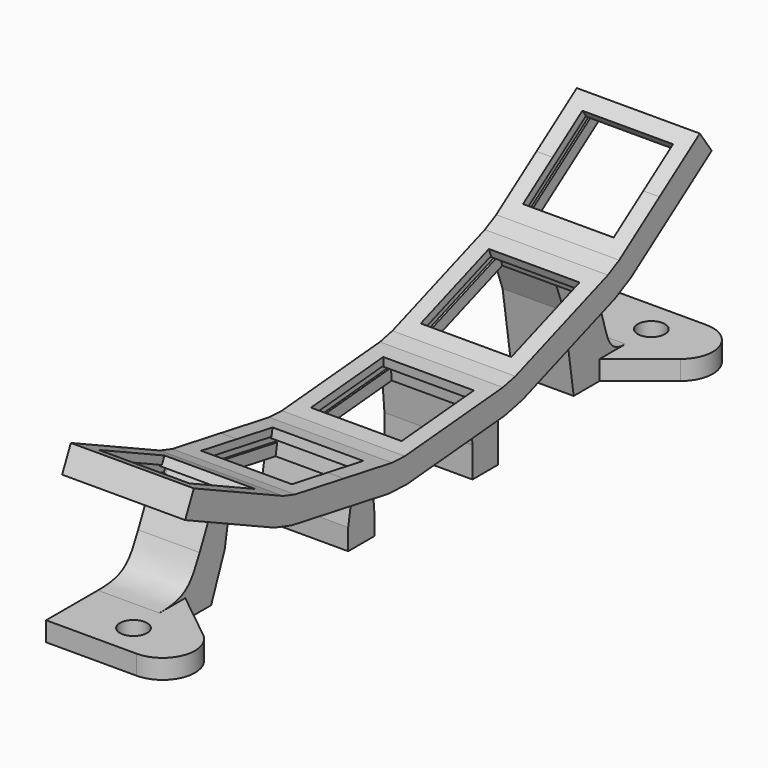
from build123d import *

# Parameters (mm, degrees)
PAD012_DEPTH      = 9.5
POCKET006_DEPTH   = 7
POCKET007_DEPTH   = 7.3
PAD013_DEPTH      = 4.1
PAD013_DEPTH_BACK = 9.5
PAD014_DEPTH      = 9.5
SKETCH025_R       = 2.1
PAD015_DEPTH      = 3


with BuildPart() as part:
    # Sketch020 → Pad012 (new body, symmetric)
    with BuildSketch(Plane.YZ):
        Polygon((-50.2140974459, 25.1635701277), (-41.604173469, 21.1486966411), (-32.9942494922, 17.1338231546), (-30.6406576873, 16.391738509), (-21.2849840337, 14.7420808212), (-11.9293103801, 13.0924231333), (-9.4638496319, 12.9847787924), (0, 13.8127583485), (9.4638496319, 14.6407379046), (11.8731622478, 15.1748696522), (20.8002421453, 18.4240610138), (29.7273220428, 21.6732523754), (31.9162958532, 22.8127600156), (39.698240274, 28.2617361609), (47.4801846947, 33.7107123063), (49.7744904401, 30.4341041291), (34.2106015986, 19.5361518385), (31.0954026161, 17.9144818922), (13.2412428211, 11.416099169), (9.8124726029, 10.6559591122), (-9.1152266609, 9), (-12.6239030908, 9.1531921213), (-31.335250398, 12.452507497), (-34.6847225392, 13.5085920065), (-51.9045704929, 21.5383389795), align=None)
    extrude(amount=PAD012_DEPTH, both=True)

    # Sketch021 → Pocket006 (cut, symmetric)
    with BuildSketch(Plane.YZ):
        Polygon((-47.9483279783, 24.1070244733), (-41.604173469, 21.1486966411), (-35.2600189598, 18.190368809), (-35.8516845262, 16.9215379071), (-34.6734844031, 16.3721341668), (-35.7722918836, 14.0157339205), (-43.294646516, 17.523465493), (-50.8170011484, 21.0311970654), (-49.7181936679, 23.3875973117), (-48.5399935447, 22.8381935715), align=None)
        Polygon((-30.1534810944, 12.2441296838), (-29.7019958324, 14.8046298416), (-28.4217457535, 14.5788872106), (-28.1786383048, 15.9576180648), (-21.2849840337, 14.7420808212), (-14.3913297626, 13.5265435775), (-14.6344372114, 12.1478127233), (-13.3541871324, 11.9220700923), (-13.8056723944, 9.3615699345), (-21.9795767444, 10.8028498091), align=None)
        Polygon((-8.1463979543, 11.6946931063), (-6.8513448468, 11.8079955719), (-6.9733628866, 13.2026681492), (0, 13.8127583485), (6.9733628866, 14.4228485477), (7.0953809265, 13.0281759704), (8.390434034, 13.1414784359), (8.6170389652, 10.5513722209), (0.348622971, 9.8279795561), (-7.9197930232, 9.1045868913), align=None)
        Polygon((14.2223937998, 16.0299200105), (20.8002421453, 18.4240610138), (27.3780904908, 20.818202017), (27.8569186914, 19.5026323479), (29.0785190985, 19.9472585343), (29.9677714711, 17.5040577202), (22.1683227186, 14.6652905306), (14.3688739661, 11.826523341), (13.4796215934, 14.2697241551), (14.7012220004, 14.7143503414), align=None)
        Polygon((33.7022853173, 22.3542388772), (34.7671829748, 23.0998882445), (33.964175964, 24.2467011065), (39.698240274, 28.2617361609), (45.432304584, 32.2767712154), (46.2353115949, 31.1299583534), (47.3002092525, 31.8756077207), (48.791507987, 29.7458124055), (41.9925460194, 24.9851279838), (35.1935840518, 20.2244435621), align=None)
    extrude(amount=POCKET006_DEPTH, both=True, mode=Mode.SUBTRACT)

    # Sketch022 → Pocket007 (cut, symmetric)
    with BuildSketch(Plane.YZ):
        Polygon((-48.4554698924, 23.0194551289), (-35.7671608739, 17.1027994645), (-35.8516845262, 16.9215379071), (-34.6734844031, 16.3721341668), (-35.0115790125, 15.6470879372), (-50.0562882773, 22.6625510822), (-49.7181936678, 23.3875973117), (-48.5399935447, 22.8381935715), align=None)
        Polygon((-28.387016118, 14.7758487612), (-14.5997075758, 12.3447742739), (-14.6344372114, 12.1478127233), (-13.3541871325, 11.9220700923), (-13.4931056746, 11.1342238899), (-29.8409143746, 14.0167836392), (-29.7019958324, 14.8046298416), (-28.4217457535, 14.5788872107), align=None)
        Polygon((-6.8687759954, 12.0072345116), (7.077949778, 13.2274149099), (7.0953809265, 13.0281759703), (8.390434034, 13.1414784359), (8.4601586282, 12.3445226773), (-8.0766733601, 10.8977373481), (-8.1463979543, 11.6946931063), (-6.8513448468, 11.8079955719), align=None)
        Polygon((14.6328179716, 14.9022888661), (27.788514663, 19.6905708716), (27.8569186915, 19.5026323479), (29.0785190985, 19.9472585342), (29.3521352133, 19.1955044372), (13.7532377079, 13.5179700589), (13.4796215934, 14.269724155), (14.7012220005, 14.7143503413), align=None)
        Polygon((34.6524676876, 23.2637186533), (46.1205963076, 31.2937887623), (46.2353115949, 31.1299583534), (47.3002092525, 31.8756077206), (47.7590704015, 31.2202860852), (34.1611464664, 21.6989172418), (33.7022853173, 22.3542388772), (34.7671829749, 23.0998882444), align=None)
    extrude(amount=POCKET007_DEPTH, both=True, mode=Mode.SUBTRACT)

    # Sketch023 → Pad013 (join, two sides)
    with BuildSketch(Plane.YZ) as pad013_sk:
        Polygon((-11.9293103801, 13.0924231333), (-9.4638496319, 12.9847787924), (-9.1152266609, 9), (-8.5922922044, 3.0228318114), (-8.5922922044, 0), (-13.6657921568, 0), (-13.6657921568, 3.2443456032), (-12.6239030908, 9.1531921213), align=None)
        Polygon((9.8124726029, 10.6559591122), (9.4638496319, 14.6407379046), (11.8731622478, 15.1748696522), (13.2412428211, 11.416099169), (15.2933636811, 5.7779434443), (15.2933636811, 0), (10.3354070593, 0), (10.3354070593, 4.6787909237), align=None)
    extrude(amount=PAD013_DEPTH)
    extrude(pad013_sk.sketch, amount=-PAD013_DEPTH_BACK)

    # Sketch024 → Pad014 (join)
    with BuildSketch(Plane.YZ):
        with BuildLine():
            Line((-45, 0), (-35, 0))
            Line((-35, 0), (-32.377139464, 6.5436609789))
            Line((-32.377139464, 6.5436609789), (-31.335250398, 12.452507497))
            Line((-31.335250398, 12.452507497), (-30.6406576873, 16.391738509))
            Line((-30.6406576873, 16.391738509), (-32.9942494922, 17.1338231546))
            Line((-32.9942494922, 17.1338231546), (-34.6847225392, 13.5085920065))
            Line((-34.6847225392, 13.5085920065), (-37.2204321096, 8.0707452842))
            add(Edge.make_bspline(
                [(-37.2204321096, 8.0707452842), (-39.0096732627, 4.233705249), (-40, 3), (-45, 3)],
                knots=[0, 0, 0, 0, 1, 1, 1, 1], degree=3))
            Line((-45, 3), (-45, 0))
        make_face()
        with BuildLine():
            Line((45, 3), (45, 0))
            Line((45, 0), (35, 0))
            Line((35, 0), (33.147523476, 12.2763261675))
            Line((33.147523476, 12.2763261675), (31.0954026161, 17.9144818922))
            Line((31.0954026161, 17.9144818922), (29.7273220428, 21.6732523754))
            Line((29.7273220428, 21.6732523754), (31.9162958532, 22.8127600156))
            Line((31.9162958532, 22.8127600156), (34.2106015986, 19.5361518385))
            Line((34.2106015986, 19.5361518385), (37.6520602167, 14.6212395727))
            add(Edge.make_bspline(
                [(37.6520602167, 14.6212395727), (42.2621193459, 8.0373928164), (40, 3), (45, 3)],
                knots=[0, 0, 0, 0, 1, 1, 1, 1], degree=3))
        make_face()
    extrude(amount=-PAD014_DEPTH)

    # Sketch025 → Pad015 (join)
    with BuildSketch(Plane.XY):
        with BuildLine():
            Line((0, 45), (-9.5, 45))
            Line((-9.5, 45), (-9.5, 55))
            Line((-9.5, 55), (4.5, 55))
            ThreePointArc((7.6224992299, 46.0948753465), (9.218348401, 51.6544450327), (4.5, 55))
            Line((7.6224992299, 46.0948753465), (0, 40))
            Line((0, 45), (0, 40))
        make_face()
        with Locations((0, 50)):
            Circle(SKETCH025_R, mode=Mode.SUBTRACT)
        with BuildLine():
            Line((0, -45), (-9.5, -45))
            Line((-9.5, -45), (-9.5, -55))
            Line((-9.5, -55), (4.5, -55))
            ThreePointArc((4.5, -55), (9.218348401, -51.6544450327), (7.6224992299, -46.0948753465))
            Line((7.6224992299, -46.0948753465), (0, -40))
            Line((0, -40), (0, -45))
        make_face()
        with Locations((0, -50)):
            Circle(SKETCH025_R, mode=Mode.SUBTRACT)
    extrude(amount=PAD015_DEPTH)


with BuildPart() as part_1:
    # Body003 placement: moved
    add(part.part.moved(Location((70, 5, 0))))


solid = part_1.part
